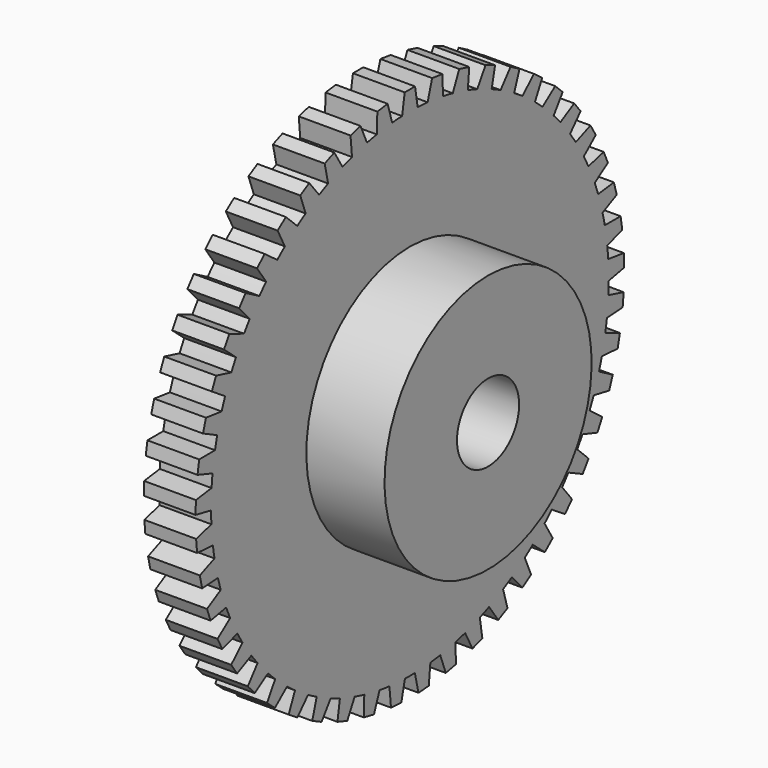
from build123d import *

# Parameters (mm, degrees)
F4_DEPTH = 6.35
F5_COUNT = 49


with BuildPart() as f1:
    # F0 (on Front) → F1 (revolve)
    with BuildSketch(Plane.XZ):
        Polygon((-9.5885, 11.1125), (-9.5885, 25.7175), (-15.9385, 25.7175), (-15.9385, 0), (0, 0), (0, 11.1125), align=None)
    revolve(axis=Axis((-4.294057, 0, -4.7625), (1, 0, 0)))

    # F3 (on face) → F4 (join)
    with BuildSketch(Plane(origin=(-15.9385, 0, 0), x_dir=(0, -1, 0), z_dir=(-1, 0, 0))):
        with BuildLine():
            ThreePointArc((-1.190625, 25.694237), (0, 25.7175), (1.190625, 25.694237))
            Line((1.190625, 25.694237), (0.79375, 28.089162))
            Line((0.79375, 28.089162), (0, 28.089162))
            Line((0, 28.089162), (-0.79375, 28.089162))
            Line((-0.79375, 28.089162), (-1.190625, 25.694237))
        make_face()
    extrude(amount=-F4_DEPTH)

    # F5: F1 ×49 about axis
    f5_axis = Axis((-15.9385, 0, -4.7625), (1, 0, 0))


with BuildPart() as f1_1:
    add(f1.part)
    for i in range(1, F5_COUNT):
        add(f1.part.rotate(f5_axis, i * 360 / F5_COUNT))


solid = f1_1.part
